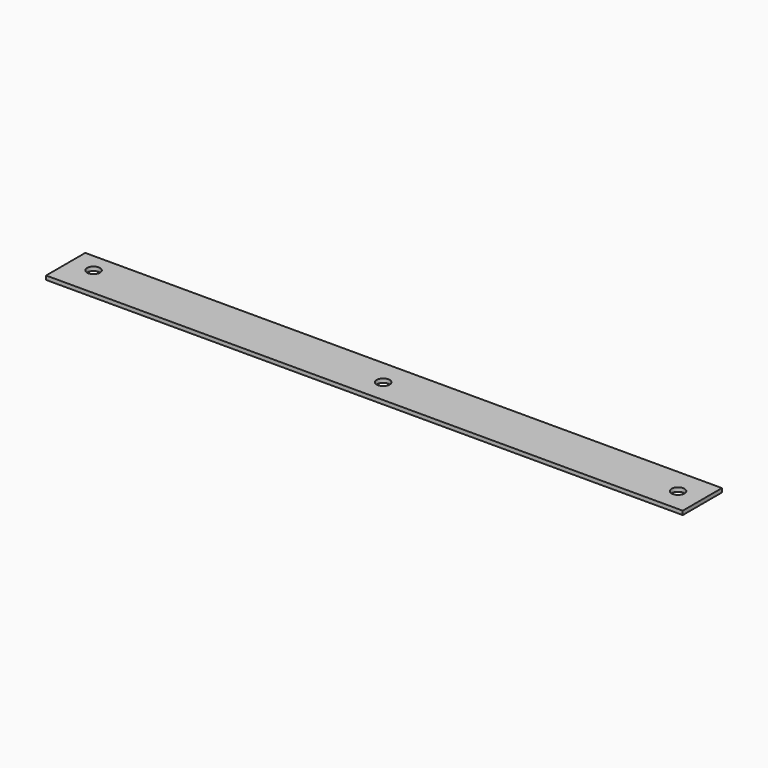
from build123d import *

# Parameters (mm, degrees)
F0_W     = 325
F0_H     = 25
F1_DEPTH = 2
F2_R     = 3.3
F3_DEPTH = 25


with BuildPart() as f1:
    # F0 (on Top) → F1 (new body)
    with BuildSketch(Plane.XY):
        with Locations((162.5, 12.5)):
            Rectangle(F0_W, F0_H)
    extrude(amount=F1_DEPTH)

    # F2 (on face) → F3 (cut)
    with BuildSketch(Plane.XY.offset(2)):
        with Locations((12, 15.3)):
            Circle(F2_R)
        with Locations((162.5, 12)):
            Circle(F2_R)
        with Locations((313, 12)):
            Circle(F2_R)
    extrude(amount=-F3_DEPTH, mode=Mode.SUBTRACT)


solid = f1.part
